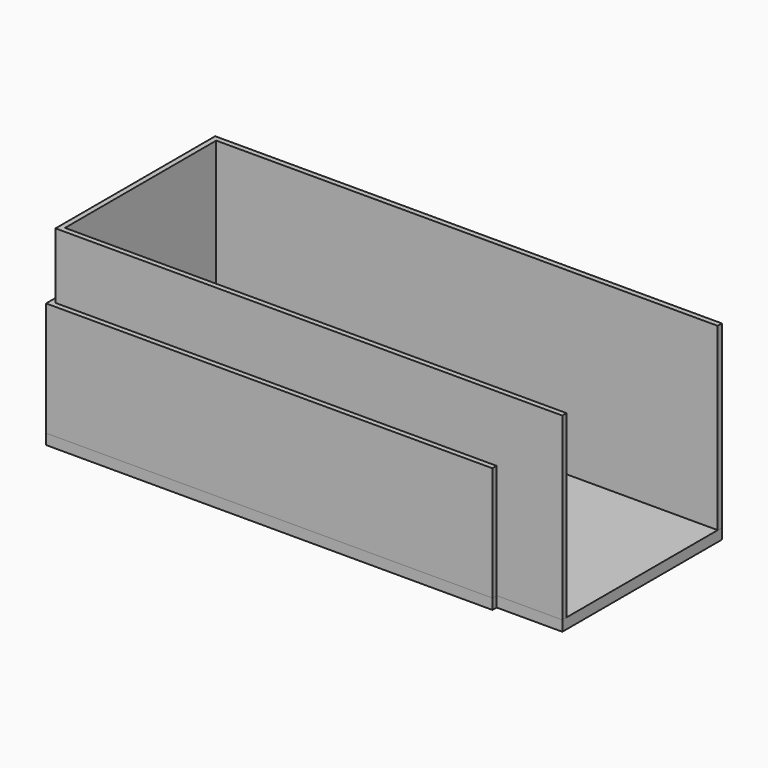
from build123d import *

# Parameters (mm, degrees)
F0_W     = 25
F0_H     = 2
F1_DEPTH = 43.5
F0_H_2   = 72
F2_DEPTH = 4
F4_DEPTH = 25


with BuildPart() as f1:
    # F0 (on Top) → F1 (new body)
    with BuildSketch(Plane.XY):
        Polygon((-166, 0), (-166, 36), (0, 36), (25, 36), (25, 38), (0, 38), (0, 40), (-170, 40), (-170, -40), (0, -40), (0, -38), (0, -36), (-166, -36), align=None)
        with Locations((12.5, -37)):
            Rectangle(F0_W, F0_H)
    extrude(amount=F1_DEPTH)

    # F3 (on face) → F4 (join)
    with BuildSketch(Plane.XY.offset(43.5)):
        Polygon((-166, 0), (-166, 36), (25, 36), (25, 38), (-168, 38), (-168, 0), align=None)
        Polygon((-166, -36), (-166, 0), (-168, 0), (-168, -38), (25, -38), (25, -36), align=None)
    extrude(amount=F4_DEPTH)


with BuildPart() as f2:
    # F0 (on Top) → F2 (new body)
    with BuildSketch(Plane.XY):
        Polygon((-166, 0), (-166, 36), (0, 36), (25, 36), (25, 38), (0, 38), (0, 40), (-170, 40), (-170, -40), (0, -40), (0, -38), (0, -36), (-166, -36), align=None)
        with Locations((12.5, -37)):
            Rectangle(F0_W, F0_H)
        Polygon((0, 36), (-166, 36), (-166, 0), (-166, -36), (0, -36), align=None)
        with Locations((12.5, 0)):
            Rectangle(F0_W, F0_H_2)
    extrude(amount=-F2_DEPTH)


solid = Compound([f1.part, f2.part])
